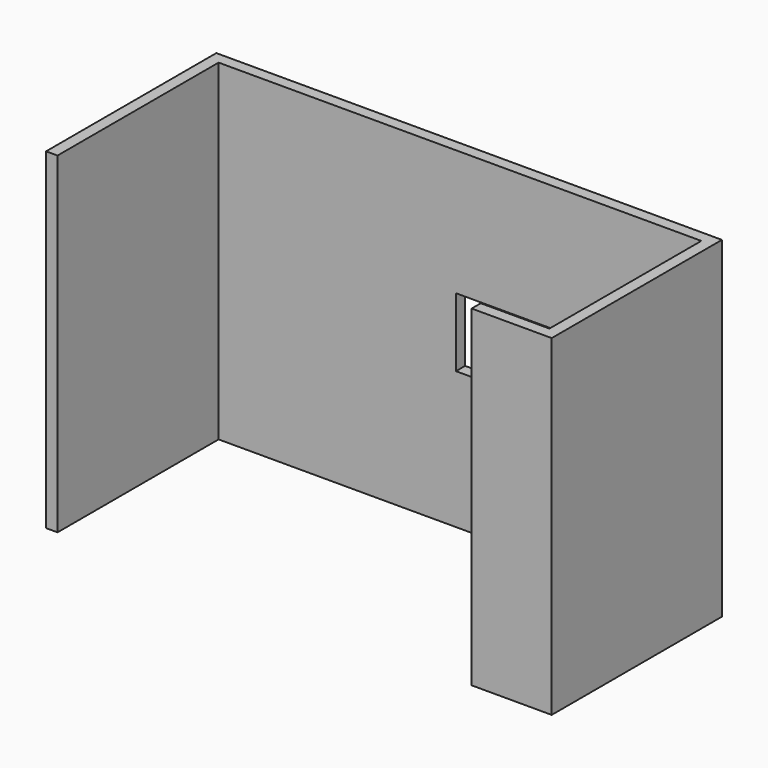
from build123d import *

# Parameters (mm, degrees)
F1_DEPTH = 2900
F2_W     = 1500
F2_H     = 600
F3_DEPTH = 100
F4_W     = 700
F4_H     = 100
F5_DEPTH = 2900


with BuildPart() as f1:
    # F0 (on Top) → F1 (new body)
    with BuildSketch(Plane.XY):
        Polygon((-100, 0), (0, 0), (0, 1760), (4220, 1760), (4220, 0), (4320, 0), (4320, 1860), (-100, 1860), align=None)
    extrude(amount=F1_DEPTH)

    # F2 (on face) → F3 (cut, through all)
    with BuildSketch(Plane.XZ.offset(-1760)):
        with Locations((2825, 1500)):
            Rectangle(F2_W, F2_H)
    extrude(amount=-F3_DEPTH, mode=Mode.SUBTRACT)

    # F4 (on face) → F5 (join)
    with BuildSketch(Plane.XY.offset(2900)):
        with Locations((3970, 50)):
            Rectangle(F4_W, F4_H)
    extrude(amount=-F5_DEPTH)


solid = f1.part
